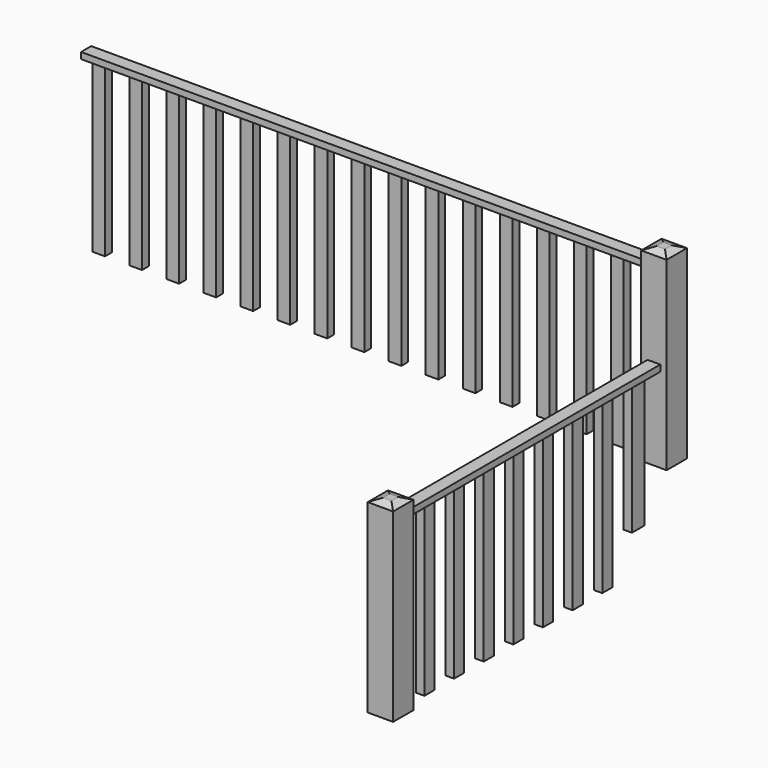
from build123d import *

# Parameters (mm, degrees)
F0_W      = 60
F0_H      = 40
F1_DEPTH  = 790
F0_W_2    = 40
F0_H_2    = 75.0254201889
F0_H_3    = 60
F0_W_3    = 120
F0_H_4    = 120
F3_DEPTH  = 30
F4_W      = 120
F4_H      = 120
F5_DEPTH  = 100
F6_SIZE2  = 40
F6_SIZE   = 15
F8_W      = 2854.2961788441
F8_H      = 160
F8_W_2    = 60
F8_H_2    = 40
F9_DEPTH  = 390
F10_W     = 40
F10_H     = 75.0254201889
F11_DEPTH = 180
F12_W     = 120
F12_H     = 120
F13_DEPTH = 390
F14_SIZE2 = 15
F14_SIZE  = 40
F15_W     = 60
F15_H     = 30
F16_DEPTH = 2337.735
F17_W     = 60
F17_H     = 40
F18_DEPTH = 390
F19_W     = 60
F19_H     = 30
F20_DEPTH = 2670
F21_W     = 60
F21_H     = 40
F22_DEPTH = 790


with BuildPart() as f1:
    # F0 (on Top) → F1 (new body)
    with BuildSketch(Plane.XY):
        with Locations((-2325, 1883.2384967804)):
            Rectangle(F0_W, F0_H)
    extrude(amount=F1_DEPTH)


with BuildPart() as f1b:
    # F0 (on Top) → F1, piece 2 (new body)
    with BuildSketch(Plane.XY):
        with Locations((-2150, 1883.2384967804)):
            Rectangle(F0_W, F0_H)
    extrude(amount=F1_DEPTH)


with BuildPart() as f1c:
    # F0 (on Top) → F1, piece 3 (new body)
    with BuildSketch(Plane.XY):
        with Locations((-1975, 1883.2384967804)):
            Rectangle(F0_W, F0_H)
    extrude(amount=F1_DEPTH)


with BuildPart() as f1d:
    # F0 (on Top) → F1, piece 4 (new body)
    with BuildSketch(Plane.XY):
        with Locations((-1800, 1883.2384967804)):
            Rectangle(F0_W, F0_H)
    extrude(amount=F1_DEPTH)


with BuildPart() as f1e:
    # F0 (on Top) → F1, piece 5 (new body)
    with BuildSketch(Plane.XY):
        with Locations((-1625, 1883.2384967804)):
            Rectangle(F0_W, F0_H)
    extrude(amount=F1_DEPTH)


with BuildPart() as f1f:
    # F0 (on Top) → F1, piece 6 (new body)
    with BuildSketch(Plane.XY):
        with Locations((-1450, 1883.2384967804)):
            Rectangle(F0_W, F0_H)
    extrude(amount=F1_DEPTH)


with BuildPart() as f1g:
    # F0 (on Top) → F1, piece 7 (new body)
    with BuildSketch(Plane.XY):
        with Locations((-1275, 1883.2384967804)):
            Rectangle(F0_W, F0_H)
    extrude(amount=F1_DEPTH)


with BuildPart() as f1h:
    # F0 (on Top) → F1, piece 8 (new body)
    with BuildSketch(Plane.XY):
        with Locations((-1100, 1883.2384967804)):
            Rectangle(F0_W, F0_H)
    extrude(amount=F1_DEPTH)


with BuildPart() as f1i:
    # F0 (on Top) → F1, piece 9 (new body)
    with BuildSketch(Plane.XY):
        with Locations((-925, 1883.2384967804)):
            Rectangle(F0_W, F0_H)
    extrude(amount=F1_DEPTH)


with BuildPart() as f1j:
    # F0 (on Top) → F1, piece 10 (new body)
    with BuildSketch(Plane.XY):
        with Locations((-750, 1883.2384967804)):
            Rectangle(F0_W, F0_H)
    extrude(amount=F1_DEPTH)


with BuildPart() as f1k:
    # F0 (on Top) → F1, piece 11 (new body)
    with BuildSketch(Plane.XY):
        with Locations((-575, 1883.2384967804)):
            Rectangle(F0_W, F0_H)
    extrude(amount=F1_DEPTH)


with BuildPart() as f1l:
    # F0 (on Top) → F1, piece 12 (new body)
    with BuildSketch(Plane.XY):
        with Locations((-400, 1883.2384967804)):
            Rectangle(F0_W, F0_H)
    extrude(amount=F1_DEPTH)


with BuildPart() as f1m:
    # F0 (on Top) → F1, piece 13 (new body)
    with BuildSketch(Plane.XY):
        with Locations((-225, 1883.2384967804)):
            Rectangle(F0_W, F0_H)
    extrude(amount=F1_DEPTH)


with BuildPart() as f1n:
    # F0 (on Top) → F1, piece 14 (new body)
    with BuildSketch(Plane.XY):
        with Locations((-20, 1705.7512068748)):
            Rectangle(F0_W_2, F0_H_2)
    extrude(amount=F1_DEPTH)


with BuildPart() as f1o:
    # F0 (on Top) → F1, piece 15 (new body)
    with BuildSketch(Plane.XY):
        with Locations((-20, 1523.2384967804)):
            Rectangle(F0_W_2, F0_H_3)
    extrude(amount=F1_DEPTH)


with BuildPart() as f1p:
    # F0 (on Top) → F1, piece 16 (new body)
    with BuildSketch(Plane.XY):
        with Locations((-20, 1348.2384967804)):
            Rectangle(F0_W_2, F0_H_3)
    extrude(amount=F1_DEPTH)


with BuildPart() as f1q:
    # F0 (on Top) → F1, piece 17 (new body)
    with BuildSketch(Plane.XY):
        with Locations((-20, 1173.2384967804)):
            Rectangle(F0_W_2, F0_H_3)
    extrude(amount=F1_DEPTH)


with BuildPart() as f1r:
    # F0 (on Top) → F1, piece 18 (new body)
    with BuildSketch(Plane.XY):
        with Locations((-20, 998.2384967804)):
            Rectangle(F0_W_2, F0_H_3)
    extrude(amount=F1_DEPTH)


with BuildPart() as f1s:
    # F0 (on Top) → F1, piece 19 (new body)
    with BuildSketch(Plane.XY):
        with Locations((-20, 823.2384967804)):
            Rectangle(F0_W_2, F0_H_3)
    extrude(amount=F1_DEPTH)


with BuildPart() as f1t:
    # F0 (on Top) → F1, piece 20 (new body)
    with BuildSketch(Plane.XY):
        with Locations((-20, 648.2384967804)):
            Rectangle(F0_W_2, F0_H_3)
    extrude(amount=F1_DEPTH)


with BuildPart() as f1u:
    # F0 (on Top) → F1, piece 21 (new body)
    with BuildSketch(Plane.XY):
        with Locations((-20, 473.2384967804)):
            Rectangle(F0_W_2, F0_H_3)
    extrude(amount=F1_DEPTH)


with BuildPart() as f1v:
    # F0 (on Top) → F1, piece 22 (new body)
    with BuildSketch(Plane.XY):
        with Locations((-20, 1883.2384967804)):
            Rectangle(F0_W_3, F0_H_4)
    extrude(amount=F1_DEPTH)


with BuildPart() as f1w:
    # F0 (on Top) → F1, piece 23 (new body)
    with BuildSketch(Plane.XY):
        with Locations((-20, 268.2384967804)):
            Rectangle(F0_W_3, F0_H_4)
    extrude(amount=F1_DEPTH)


with BuildPart() as f3:
    # F2 (on face) → F3 (new body)
    with BuildSketch(Plane.XY.offset(790)):
        Polygon((-50, 328.2384967804), (-80, 328.2384967804), (-80, 208.2384967804), (40, 208.2384967804), (40, 328.2384967804), (10, 328.2384967804), align=None)
        Polygon((-50, 1853.2384967804), (-50, 328.2384967804), (10, 328.2384967804), (10, 1913.2384967804), (-2417.7248619497, 1913.2384967804), (-2417.7248619497, 1853.2384967804), align=None)
    extrude(amount=F3_DEPTH)


with BuildPart() as f5:
    # F4 (on face) → F5 (new body)
    with BuildSketch(Plane.XY.offset(790)):
        with Locations((-20, 1883.2384967804)):
            Rectangle(F4_W, F4_H)
    extrude(amount=F5_DEPTH)


with BuildPart() as f5b:
    # F4 (on face) → F5, piece 2 (new body)
    with BuildSketch(Plane.XY.offset(790)):
        with Locations((-20, 268.2384967804)):
            Rectangle(F4_W, F4_H)
    extrude(amount=F5_DEPTH)

    # F6
    f6_edges = [f5b.edges().sort_by_distance(p)[0] for p in [
        (40, 268.238497, 890),
        (-20, 208.238497, 890),
        (-80, 268.238497, 890),
        (-20, 328.238497, 890),
    ]]
    chamfer(f6_edges, length=F6_SIZE, length2=F6_SIZE2)


with BuildPart() as f1w_1:
    add(f1w.part)

    # F7: union F1v, F1u, F1t, F1s, F1r, F1q, F1p, F1o, F1n, F1m, F1l, F1k, F1j, F1i, F1h, F1g, F1f, F1e, F1d, F1c, F1b, F1, F3, F5b, F5
    add(f1v.part)
    add(f1u.part)
    add(f1t.part)
    add(f1s.part)
    add(f1r.part)
    add(f1q.part)
    add(f1p.part)
    add(f1o.part)
    add(f1n.part)
    add(f1m.part)
    add(f1l.part)
    add(f1k.part)
    add(f1j.part)
    add(f1i.part)
    add(f1h.part)
    add(f1g.part)
    add(f1f.part)
    add(f1e.part)
    add(f1d.part)
    add(f1c.part)
    add(f1b.part)
    add(f1.part)
    add(f3.part)
    add(f5b.part)
    add(f5.part)

    # F8 (on face) → F9 (cut)
    with BuildSketch(Plane(origin=(0, 0, 0), x_dir=(1, 0, 0), z_dir=(0, 0, -1))):
        with Locations((-1124.7590482235, -1868.9160346985)):
            Rectangle(F8_W, F8_H)
        with Locations((-2325, -1883.2384967804)):
            Rectangle(F8_W_2, F8_H_2, mode=Mode.SUBTRACT)
        with Locations((-2325, -1883.2384967804)):
            Rectangle(F8_W_2, F8_H_2)
    extrude(amount=-F9_DEPTH, mode=Mode.SUBTRACT)

    # F10 (on face) → F11 (cut)
    with BuildSketch(Plane(origin=(0, 0, 0), x_dir=(1, 0, 0), z_dir=(0, 0, -1))):
        with Locations((-20, -1705.7512068748)):
            Rectangle(F10_W, F10_H)
    extrude(amount=-F11_DEPTH, mode=Mode.SUBTRACT)

    # F12 (on face) → F13 (join)
    with BuildSketch(Plane.XY.offset(890)):
        with Locations((-20, 1883.2384967804)):
            Rectangle(F12_W, F12_H)
    extrude(amount=F13_DEPTH)

    # F14
    f14_edges = [f1w_1.edges().sort_by_distance(p)[0] for p in [
        (-20, 1823.238497, 1280),
        (-80, 1883.238497, 1280),
        (-20, 1943.238497, 1280),
        (40, 1883.238497, 1280),
    ]]
    f14_side = f1w_1.faces().sort_by_distance((-20, 1883.238497, 1280))[0]
    chamfer(f14_edges, length=F14_SIZE, length2=F14_SIZE2, reference=f14_side)

    # F15 (on face) → F16 (cut)
    with BuildSketch(Plane(origin=(-2417.7248619497, 0, 0), x_dir=(0, -1, 0), z_dir=(-1, 0, 0))):
        with Locations((-1883.2384967804, 805)):
            Rectangle(F15_W, F15_H)
    extrude(amount=-F16_DEPTH, mode=Mode.SUBTRACT)

    # F17 (on face) → F18 (join)
    with BuildSketch(Plane.XY.offset(790)):
        with Locations((-2325, 1883.2384967804)):
            Rectangle(F17_W, F17_H)
        with Locations((-2150, 1883.2384967804)):
            Rectangle(F17_W, F17_H)
        with Locations((-1975, 1883.2384967804)):
            Rectangle(F17_W, F17_H)
        with Locations((-1800, 1883.2384967804)):
            Rectangle(F17_W, F17_H)
        with Locations((-1625, 1883.2384967804)):
            Rectangle(F17_W, F17_H)
        with Locations((-1450, 1883.2384967804)):
            Rectangle(F17_W, F17_H)
        with Locations((-1275, 1883.2384967804)):
            Rectangle(F17_W, F17_H)
        with Locations((-1100, 1883.2384967804)):
            Rectangle(F17_W, F17_H)
        with Locations((-925, 1883.2384967804)):
            Rectangle(F17_W, F17_H)
        with Locations((-750, 1883.2384967804)):
            Rectangle(F17_W, F17_H)
        with Locations((-575, 1883.2384967804)):
            Rectangle(F17_W, F17_H)
        with Locations((-400, 1883.2384967804)):
            Rectangle(F17_W, F17_H)
        with Locations((-225, 1883.2384967804)):
            Rectangle(F17_W, F17_H)
    extrude(amount=F18_DEPTH)

    # F19 (on face) → F20 (join)
    with BuildSketch(Plane(origin=(-80, 0, 0), x_dir=(0, -1, 0), z_dir=(-1, 0, 0))):
        with Locations((-1883.2384967804, 1195)):
            Rectangle(F19_W, F19_H)
    extrude(amount=F20_DEPTH)

    # F21 (on face) → F22 (join)
    with BuildSketch(Plane(origin=(0, 0, 1180), x_dir=(1, 0, 0), z_dir=(0, 0, -1))):
        with Locations((-2675, -1883.2384967804)):
            Rectangle(F21_W, F21_H)
        with Locations((-2500, -1883.2384967804)):
            Rectangle(F21_W, F21_H)
    extrude(amount=F22_DEPTH)


solid = f1w_1.part
